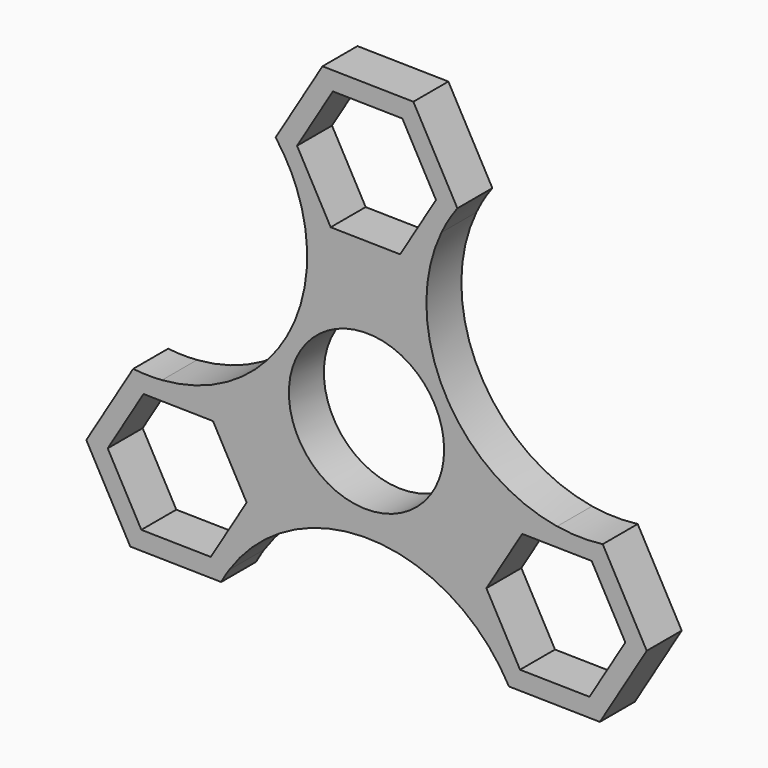
from build123d import *

# Parameters (mm, degrees)
F0_R     = 11.271542
F1_DEPTH = 6.35


with BuildPart() as f1:
    # F0 (on Front) → F1 (new body)
    with BuildSketch(Plane.XZ):
        with BuildLine():
            Line((-6.390918, 43.2977), (-13.19606, 31.989153))
            ThreePointArc((-13.19606, 31.989153), (-11.463579, 29.318463), (-10.120634, 26.432189))
            Line((-10.120634, 26.432189), (-6.805143, 20.441453))
            Line((-6.805143, 20.441453), (6.390918, 20.2023))
            Line((6.390918, 20.2023), (10.883807, 27.668425))
            ThreePointArc((10.883807, 27.668425), (11.944804, 29.646882), (13.19606, 31.510847))
            Line((13.19606, 31.510847), (6.805143, 43.058547))
            Line((6.805143, 43.058547), (-6.390918, 43.2977))
        make_face()
        Polygon((-5.202153, 23.105244), (-10.087655, 31.932819), (-4.885502, 40.577575), (5.202153, 40.394756), (10.087655, 31.567181), (4.885502, 22.922425), align=None, mode=Mode.SUBTRACT)
        with BuildLine():
            Line((-6.805143, 20.441453), (-10.120634, 26.432189))
            ThreePointArc((-10.120634, 26.432189), (-12.16138, 6.098293), (-29.692728, -4.403317))
            Line((-29.692728, -4.403317), (-20.691164, -4.566453))
            Line((-20.691164, -4.566453), (-14.300246, -16.114153))
            Line((-14.300246, -16.114153), (-19.934956, -25.477715))
            ThreePointArc((-19.934956, -25.477715), (0.85707, -14.923569), (20.691164, -27.183547))
            Line((20.691164, -27.183547), (14.300246, -15.635847))
            Line((14.300246, -15.635847), (21.105389, -4.3273))
            Line((21.105389, -4.3273), (27.669855, -4.446268))
            ThreePointArc((27.669855, -4.446268), (11.277144, 7.429717), (10.883807, 27.668425))
            Line((10.883807, 27.668425), (6.390918, 20.2023))
            Line((6.390918, 20.2023), (-6.805143, 20.441453))
        make_face()
        Circle(F0_R, mode=Mode.SUBTRACT)
        with BuildLine():
            Line((-20.691164, -4.566453), (-29.692728, -4.403317))
            ThreePointArc((-29.692728, -4.403317), (-31.791731, -4.462148), (-33.887224, -4.3273))
            Line((-33.887224, -4.3273), (-40.692367, -15.635847))
            Line((-40.692367, -15.635847), (-34.301449, -27.183547))
            Line((-34.301449, -27.183547), (-21.105389, -27.4227))
            ThreePointArc((-21.105389, -27.4227), (-20.543364, -26.436252), (-19.934956, -25.477715))
            Line((-19.934956, -25.477715), (-14.300246, -16.114153))
            Line((-14.300246, -16.114153), (-20.691164, -4.566453))
        make_face()
        Polygon((-17.408652, -16.057819), (-22.610805, -24.702575), (-32.69846, -24.519756), (-37.583962, -15.692181), (-32.381808, -7.047425), (-22.294153, -7.230244), align=None, mode=Mode.SUBTRACT)
        with BuildLine():
            ThreePointArc((34.301449, -4.566453), (30.981239, -4.749904), (27.669855, -4.446268))
            Line((27.669855, -4.446268), (21.105389, -4.3273))
            Line((21.105389, -4.3273), (14.300246, -15.635847))
            Line((14.300246, -15.635847), (20.691164, -27.183547))
            Line((20.691164, -27.183547), (33.887224, -27.4227))
            Line((33.887224, -27.4227), (40.692367, -16.114153))
            Line((40.692367, -16.114153), (34.301449, -4.566453))
        make_face()
        Polygon((22.610805, -7.047425), (32.69846, -7.230244), (37.583962, -16.057819), (32.381808, -24.702575), (22.294153, -24.519756), (17.408652, -15.692181), align=None, mode=Mode.SUBTRACT)
    extrude(amount=F1_DEPTH)


solid = f1.part
